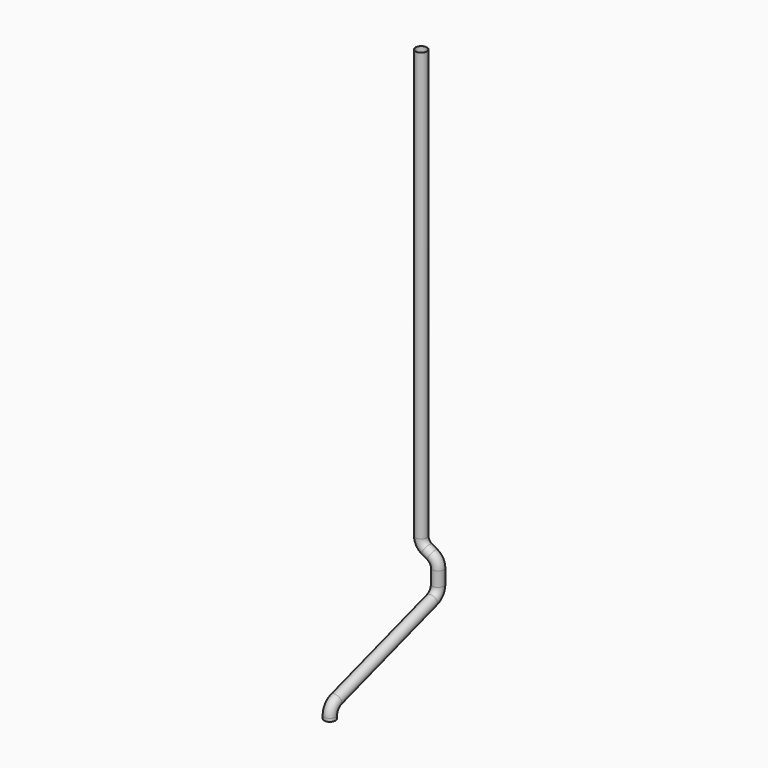
from build123d import *

# Parameters (mm, degrees)
F1_R        = 50
F1_R_2      = 49
F2_FACE_R   = 50
F2_FACE_R_2 = 49


with BuildPart() as f2:
    # F2: sweep along a path in F0
    with BuildLine(Plane.YZ) as f2_path:
        Line((0, 0), (0, -27.3457471995))
        ThreePointArc((0, -27.3457471995), (-19.0983005625, -86.1242724287), (-69.0983005625, -122.451398829))
        Line((-69.0983005625, -122.451398829), (-1130.9016994375, -467.4522366505))
        ThreePointArc((-1130.9016994375, -467.4522366505), (-1180.9016994375, -503.7793630508), (-1200, -562.55788828))
        Line((-1200, -562.55788828), (-1200, -589.9036354795))
    # F1 (on Top) → F2 (sweep)
    with BuildSketch(Plane.XY):
        Circle(F1_R)
        Circle(F1_R_2, mode=Mode.SUBTRACT)
    sweep(path=f2_path.line)

    # F4: sweep along a path in F3
    with BuildLine(Plane.XZ) as f4_path:
        Line((0, 0), (0, 100))
        ThreePointArc((0, 100), (-13.3974596216, 150), (-50, 186.6025403784))
        Line((-50, 186.6025403784), (-100, 215.4700538379))
        ThreePointArc((-100, 215.4700538379), (-136.6025403784, 252.0725942164), (-150, 302.0725942164))
        Line((-150, 302.0725942164), (-150, 4100))
    # F2_face (on face) → F4 (sweep)
    with BuildSketch(Plane.XY):
        Circle(F2_FACE_R)
        Circle(F2_FACE_R_2, mode=Mode.SUBTRACT)
    sweep(path=f4_path.line)


solid = f2.part
